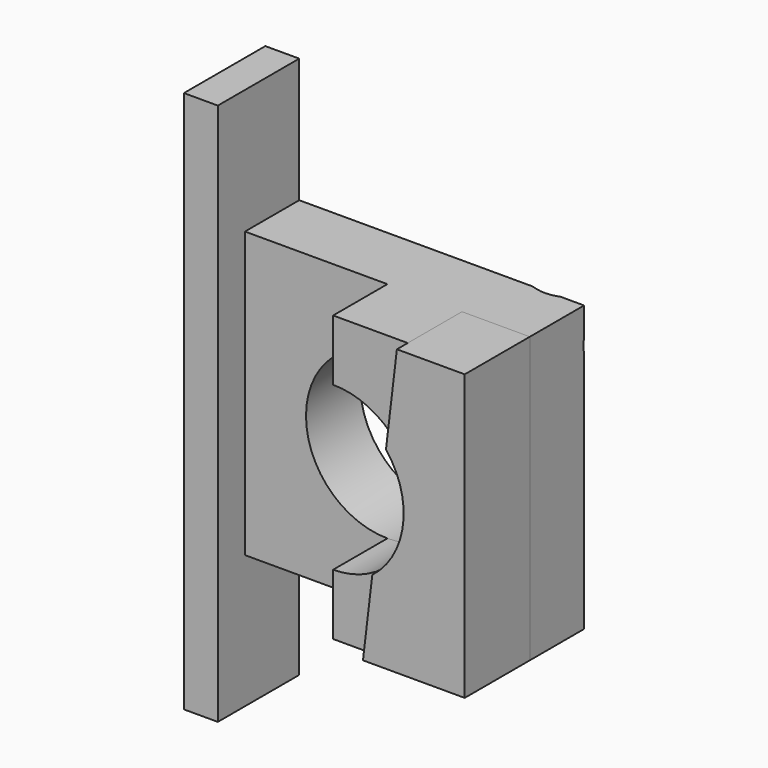
from build123d import *

# Parameters (mm, degrees)
F0_W           = 42
F0_H           = 42
F0_R           = 12
F1_DEPTH       = 10
F2_W           = 15
F2_H           = 80
F3_DEPTH       = 5
F5_DEPTH       = 10
F6_DEPTH       = 12
F8_D           = 4.1
F8_CSINK_D     = 11.2
F8_CSINK_ANGLE = 90


with BuildPart() as f1:
    # F0 (on Front) → F1 (new body)
    with BuildSketch(Plane.XZ):
        Rectangle(F0_W, F0_H)
        Circle(F0_R, mode=Mode.SUBTRACT)
    extrude(amount=F1_DEPTH)

    # F2 (on face) → F3 (join)
    with BuildSketch(Plane(origin=(-21, 0, 0), x_dir=(0, -1, 0), z_dir=(-1, 0, 0))):
        with Locations((7.5, -0.6199396634)):
            Rectangle(F2_W, F2_H)
    extrude(amount=F3_DEPTH)

    # F4 (on face) → F5 (join)
    with BuildSketch(Plane.XZ.offset(10)):
        with BuildLine():
            Line((9.3895657925, 7.4723526569), (11, 21))
            Line((11, 21), (0, 21))
            Line((0, 21), (0, 12))
            ThreePointArc((0, 12), (5.2120901814, 10.8089831132), (9.3895657925, 7.4723526569))
        make_face()
        with BuildLine():
            Line((6, -21), (7.3728713232, -9.4678808849))
            ThreePointArc((7.3728713232, -9.4678808849), (3.8977833047, -11.3493297295), (0, -12))
            Line((0, -12), (0, -21))
            Line((0, -21), (6, -21))
        make_face()
    extrude(amount=F5_DEPTH)


with BuildPart() as f6:
    # F6 (new): a face of the model
    f6_faces = [f1.part.faces().sort_by_distance(p)[0] for p in [
        (15.0870554418, -10, -1.4200647771),
    ]]
    extrude(f6_faces, amount=F6_DEPTH)


with BuildPart() as f1_1:
    add(f1.part)

    # F8 (through all)
    with Locations(Plane(origin=(0, 0, 0), x_dir=(-1, 0, 0), z_dir=(0, 1, 0))):
        with Locations((-15.5017171055, 15.7948527485)):
            CounterSinkHole(F8_D / 2, F8_CSINK_D / 2, counter_sink_angle=F8_CSINK_ANGLE)


solid = Compound([f6.part, f1_1.part])
